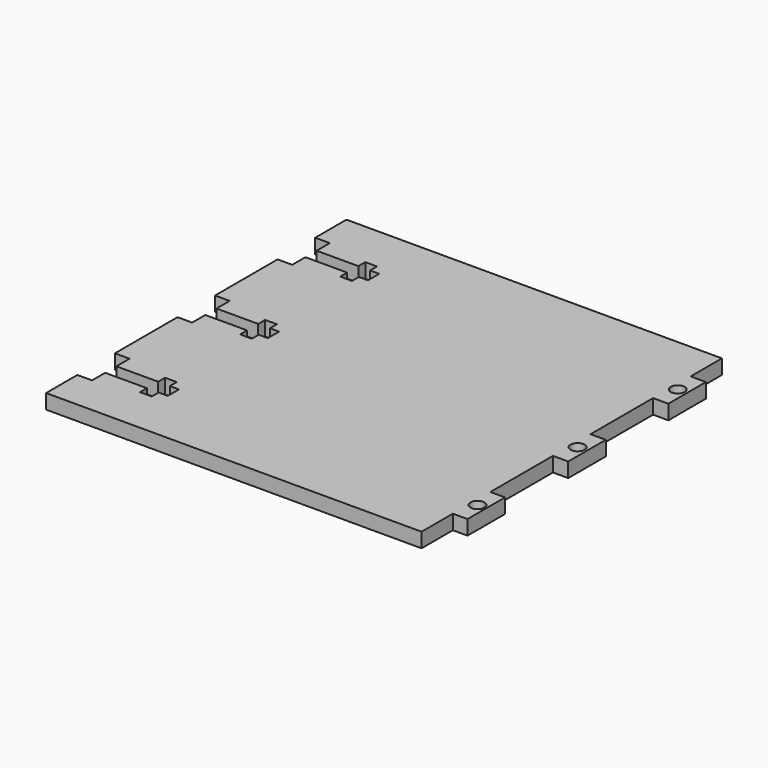
from build123d import *

# Parameters (mm, degrees)
F0_R     = 1.4224
F1_DEPTH = 2.9718


with BuildPart() as f1:
    # F0 (on Top) → F1 (new body)
    with BuildSketch(Plane.XY):
        Polygon((0, 7.9375), (0, 0), (76.2, 0), (76.2, 7.937502), (79.1718, 7.937502), (79.1718, 17.462502), (76.2, 17.462502), (76.2, 33.337502), (79.2988, 33.337502), (79.2988, 42.862502), (76.2, 42.862502), (76.2, 58.737502), (79.2988, 58.737502), (79.2988, 68.262502), (76.2, 68.262502), (76.2, 76.2), (0, 76.2), (0, 68.2625), (2.9718, 68.2625), (2.9718, 64.9224), (11.438467, 64.9224), (11.438467, 66.675), (13.819717, 66.675), (13.819717, 64.9224), (15.6718, 64.9224), (15.6718, 62.0776), (13.819717, 62.0776), (13.819717, 60.325), (11.438467, 60.325), (11.438467, 62.0776), (2.9718, 62.0776), (2.9718, 58.7375), (0, 58.7375), (0, 42.862502), (2.9718, 42.862502), (2.9718, 39.5224), (11.438467, 39.5224), (11.438467, 41.275), (13.819717, 41.275), (13.819717, 39.5224), (15.6718, 39.5224), (15.6718, 36.6776), (13.819717, 36.6776), (13.819717, 34.925), (11.438467, 34.925), (11.438467, 36.6776), (2.9718, 36.6776), (2.9718, 33.3375), (0, 33.3375), (0, 17.4625), (2.9718, 17.4625), (2.9718, 14.1224), (11.438467, 14.1224), (11.438467, 15.875), (13.819717, 15.875), (13.819717, 14.1224), (15.6718, 14.1224), (15.6718, 11.2776), (13.819717, 11.2776), (13.819717, 9.525), (11.438467, 9.525), (11.438467, 11.2776), (2.9718, 11.2776), (2.9718, 7.9375), align=None)
        with Locations((77.3938, 12.700002)):
            Circle(F0_R, mode=Mode.SUBTRACT)
        with Locations((77.3938, 38.100002)):
            Circle(F0_R, mode=Mode.SUBTRACT)
        with Locations((77.3938, 63.500002)):
            Circle(F0_R, mode=Mode.SUBTRACT)
    extrude(amount=F1_DEPTH)


solid = f1.part
